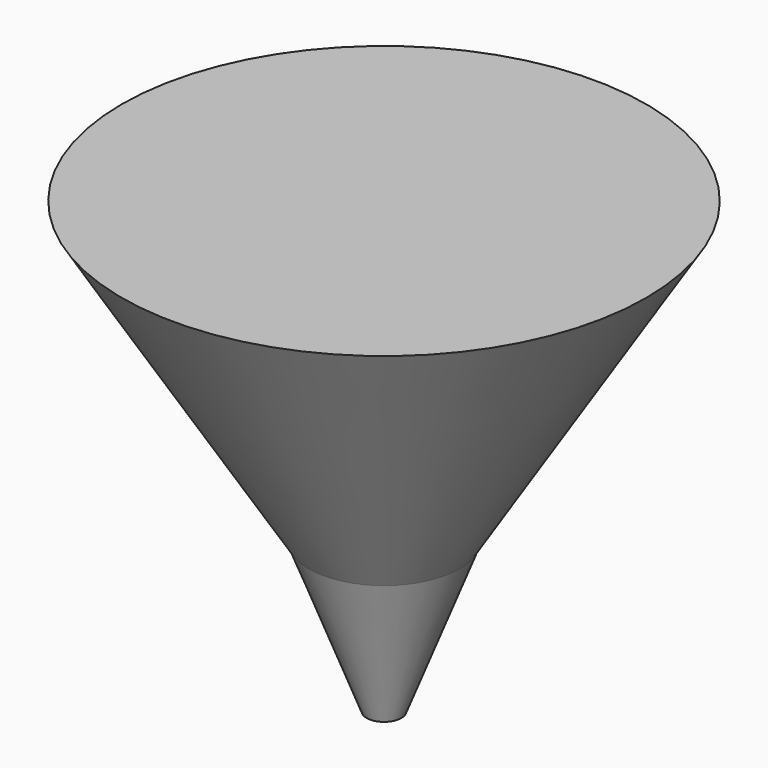
from build123d import *

# Parameters (mm, degrees)
F0_R     = 22.225
F1_DEPTH = 25.4
F1_TAPER = 32
F3_R     = 6.35
F4_DEPTH = 12.7
F4_TAPER = 21


with BuildPart() as f1:
    # F0 (on Top) → F1 (new body)
    with BuildSketch(Plane.XY):
        Circle(F0_R)
    extrude(amount=-F1_DEPTH, taper=F1_TAPER)


with BuildPart() as f4:
    # F3 (on offset) → F4 (new body)
    with BuildSketch(Plane.XY.offset(-25.4)):
        Circle(F3_R)
    extrude(amount=-F4_DEPTH, taper=F4_TAPER)


solid = Compound([f1.part, f4.part])
